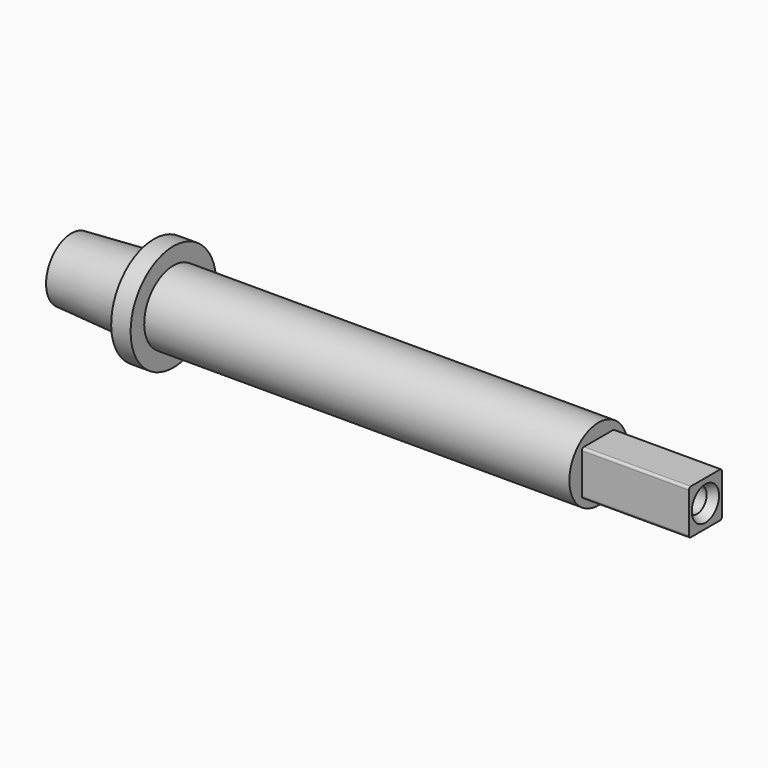
from build123d import *

# Parameters (mm, degrees)
F2_W           = 8.5
F2_H           = 9.2348072443
F3_DEPTH       = 22
F5_D           = 8
F5_DEPTH       = 20
F5_TIP         = 2.4034424761
F6_R           = 0.5
F8_D           = 5
F8_DEPTH       = 12
F8_CSINK_D     = 7
F8_CSINK_ANGLE = 60
F8_TIP         = 1.5021515476


with BuildPart() as f1:
    # F0 (on Front) → F1 (revolve)
    with BuildSketch(Plane.XZ):
        Polygon((-21, 6.5), (-21, 0), (87.5, 0), (87.5, 7.5), (0, 7.5), (0, 11), (-4, 11), (-4, 7.5397645426), align=None)
    revolve(axis=Axis((33.25, 0, 0), (1, 0, 0)))

    # F2 (on face) → F3 (join)
    with BuildSketch(Plane.YZ.offset(87.5)):
        Rectangle(F2_W, F2_H)
    extrude(amount=F3_DEPTH)

    # F5
    with Locations(Plane(origin=(-21, 0, 0), x_dir=(0, -1, 0), z_dir=(-1, 0, 0))):
        with Locations((0, 0)):
            Hole(F5_D / 2, depth=F5_DEPTH)
            with Locations((0, 0, -(F5_DEPTH + F5_TIP / 2))):  # 118° drill point
                Cone(0, F5_D / 2, F5_TIP, mode=Mode.SUBTRACT)

    # F6
    f6_edges = [f1.edges().sort_by_distance(p)[0] for p in [
        (98.5, -4.25, 4.617404),
        (98.5, -4.25, -4.617404),
        (98.5, 4.25, 4.617404),
        (98.5, 4.25, -4.617404),
    ]]
    fillet(f6_edges, radius=F6_R)

    # F8
    with Locations(Plane.YZ.offset(109.5)):
        with Locations((0, 0)):
            CounterSinkHole(F8_D / 2, F8_CSINK_D / 2, depth=F8_DEPTH, counter_sink_angle=F8_CSINK_ANGLE)
            with Locations((0, 0, -(F8_DEPTH + F8_TIP / 2))):  # 118° drill point
                Cone(0, F8_D / 2, F8_TIP, mode=Mode.SUBTRACT)


solid = f1.part
